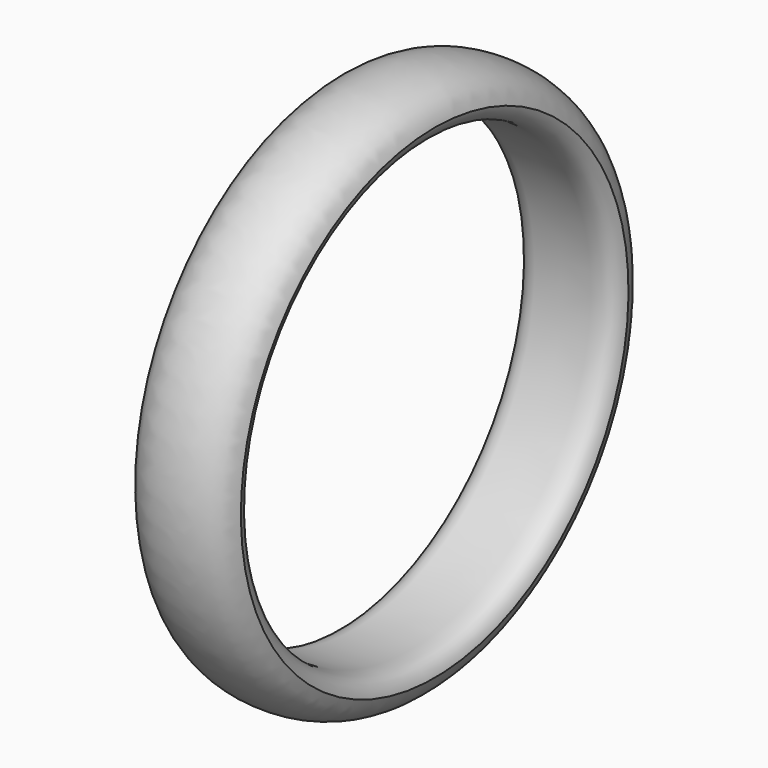
from build123d import *


with BuildPart() as f1:
    # F0 (on Front) → F1 (revolve)
    with BuildSketch(Plane.XZ):
        with BuildLine():
            add(Edge.make_bspline(
                [(-2.238449, 0), (-2.015788, 0.973267), (0, 1.632892), (2.015788, 0.973267), (2.238449, 0)],
                knots=[0, 0, 0, 0, 2.59011, 5.18022, 5.18022, 5.18022, 5.18022], degree=3))
            add(Edge.make_bspline(
                [(-2.238449, 0), (-2.015788, -0.973267), (0, -0.420573), (2.015788, -0.973267), (2.238449, 0)],
                knots=[0, 0, 0, 0, 2.34443, 4.688859, 4.688859, 4.688859, 4.688859], degree=3))
        make_face()
    revolve(axis=Axis((4.424147, 0, -10.69692), (1, 0, 0)))


solid = f1.part
